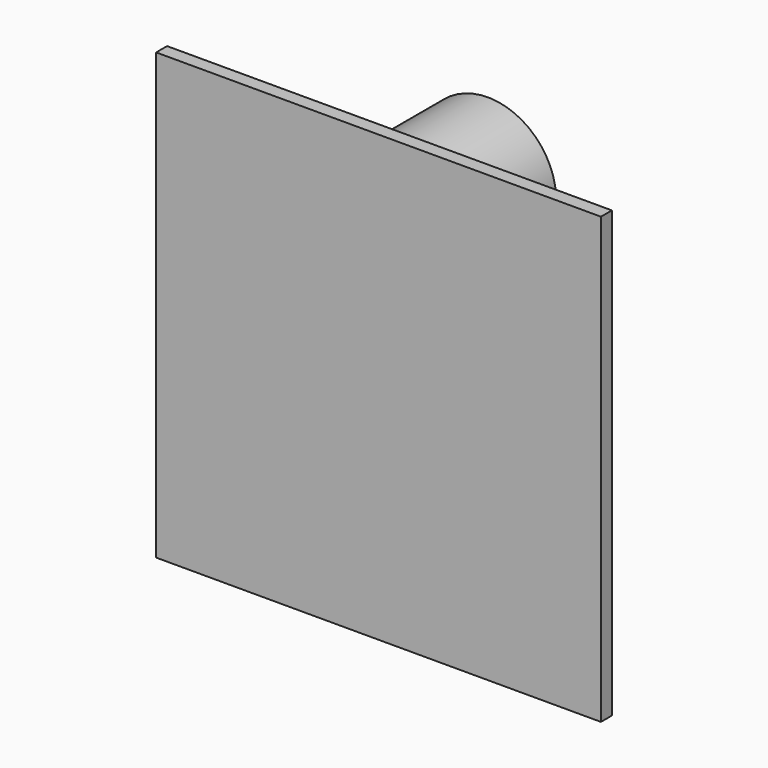
from build123d import *

# Parameters (mm, degrees)
F0_W      = 97.6
F0_H      = 97.6
F1_DEPTH  = 3
F2_W      = 15
F2_H      = 60
F3_DEPTH  = 15
F4_R      = 6
F4_R_2    = 3.5
F5_DEPTH  = 0.1
F6_R      = 6
F6_R_2    = 3.5
F7_DEPTH  = 0.1
F8_R      = 3.5
F9_DEPTH  = 0.1
F10_R     = 3.5
F11_DEPTH = 0.1
F12_R     = 15
F13_DEPTH = 27


with BuildPart() as f1:
    # F0 (on Front) → F1 (new body)
    with BuildSketch(Plane.XZ):
        with Locations((48.8, 48.8)):
            Rectangle(F0_W, F0_H)
    extrude(amount=F1_DEPTH)


with BuildPart() as f3:
    # F2 (on face) → F3 (new body)
    with BuildSketch(Plane(origin=(0, 0, 0), x_dir=(-1, 0, 0), z_dir=(0, 1, 0))):
        with Locations((-22.5, 30)):
            Rectangle(F2_W, F2_H)
        with Locations((-75.1, 30)):
            Rectangle(F2_W, F2_H)
    extrude(amount=F3_DEPTH)


with BuildPart() as f5:
    # F4 (on face) → F5 (new body)
    with BuildSketch(Plane(origin=(0, 0, 0), x_dir=(1, 0, 0), z_dir=(0, 0, -1))):
        with Locations((22.5, -7.5)):
            Circle(F4_R)
        with Locations((22.5, -7.5)):
            Circle(F4_R_2, mode=Mode.SUBTRACT)
    extrude(amount=F5_DEPTH)


with BuildPart() as f7:
    # F6 (on face) → F7 (new body)
    with BuildSketch(Plane(origin=(0, 0, 0), x_dir=(1, 0, 0), z_dir=(0, 0, -1))):
        with Locations((75.1, -7.5)):
            Circle(F6_R)
        with Locations((75.1, -7.5)):
            Circle(F6_R_2, mode=Mode.SUBTRACT)
    extrude(amount=F7_DEPTH)


with BuildPart() as f9:
    # F8 (on face) → F9 (new body)
    with BuildSketch(Plane(origin=(0, 0, 0), x_dir=(1, 0, 0), z_dir=(0, 0, -1))):
        with Locations((75.1, -7.5)):
            Circle(F8_R)
    extrude(amount=F9_DEPTH)


with BuildPart() as f11:
    # F10 (on face) → F11 (new body)
    with BuildSketch(Plane(origin=(0, 0, 0), x_dir=(1, 0, 0), z_dir=(0, 0, -1))):
        with Locations((22.5, -7.5)):
            Circle(F10_R)
    extrude(amount=F11_DEPTH)


with BuildPart() as f13:
    # F12 (on face) → F13 (new body)
    with BuildSketch(Plane(origin=(0, 0, 0), x_dir=(-1, 0, 0), z_dir=(0, 1, 0))):
        with Locations((-48.8, 77.6)):
            Circle(F12_R)
    extrude(amount=F13_DEPTH)


solid = Compound([f1.part, f3.part, f5.part, f7.part, f9.part, f11.part, f13.part])
